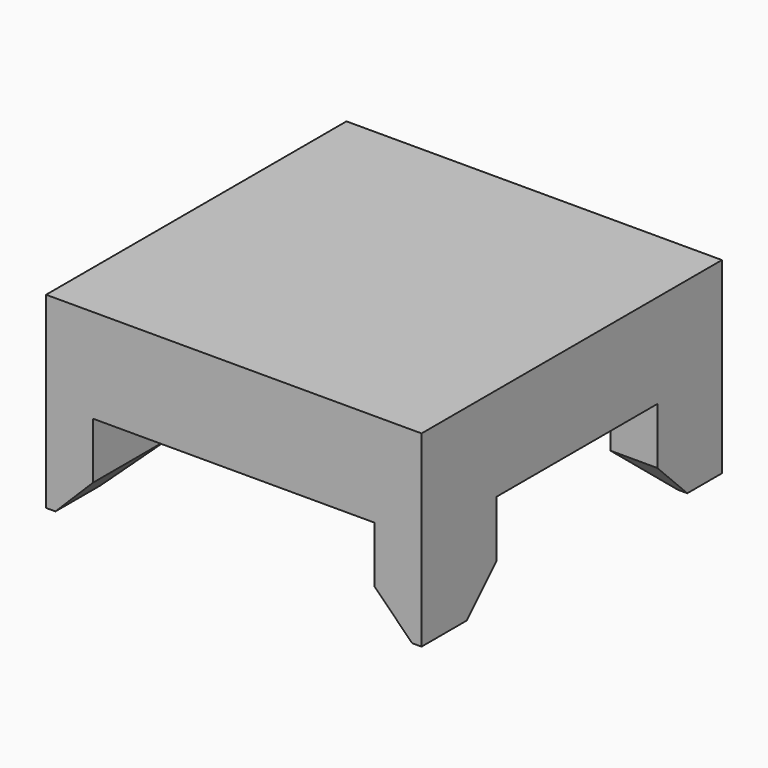
from build123d import *

# Parameters (mm, degrees)
F0_W     = 50.8
F0_H     = 50.8
F1_DEPTH = 12.7
F2_W     = 6.35
F2_H     = 12.7
F2_H_2   = 10.934927
F3_DEPTH = 12.7
F4_SIZE  = 5.08


with BuildPart() as f1:
    # F0 (on Top) → F1 (new body)
    with BuildSketch(Plane.XY):
        with Locations((0.767379, -0.027555)):
            Rectangle(F0_W, F0_H)
    extrude(amount=-F1_DEPTH)

    # F2 (on face) → F3 (join)
    with BuildSketch(Plane(origin=(0, 0, -12.7), x_dir=(1, 0, 0), z_dir=(0, 0, -1))):
        with Locations((-21.457621, 19.077555)):
            Rectangle(F2_W, F2_H)
        with Locations((22.992379, 19.077555)):
            Rectangle(F2_W, F2_H)
        with Locations((-21.457621, -19.022445)):
            Rectangle(F2_W, F2_H)
        with Locations((22.992379, -19.904981)):
            Rectangle(F2_W, F2_H_2)
    extrude(amount=F3_DEPTH)

    # F4
    f4_edges = [f1.edges().sort_by_distance(p)[0] for p in [
        (-21.457621, -12.727555, -25.4),
        (-18.282621, -19.077555, -25.4),
        (19.817379, -19.077555, -25.4),
        (22.992379, -12.727555, -25.4),
        (-18.282621, 19.022445, -25.4),
        (-21.457621, 12.672445, -25.4),
        (22.992379, 14.437518, -25.4),
        (19.817379, 19.904981, -25.4),
    ]]
    chamfer(f4_edges, length=F4_SIZE)


solid = f1.part
